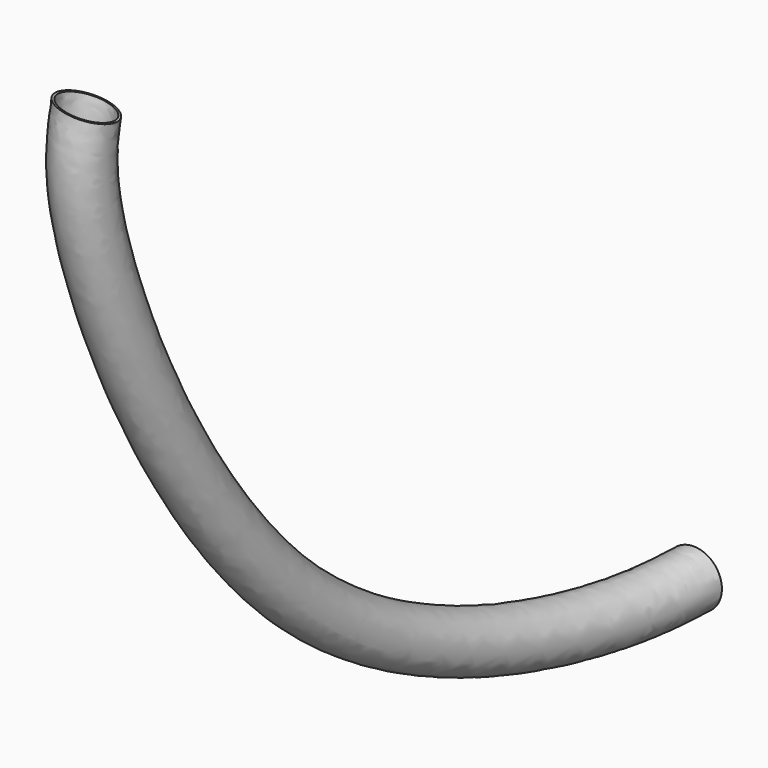
from build123d import *

# Parameters (mm, degrees)
F6_R   = 25
F6_R_2 = 23


with BuildPart() as f7:
    # F7: sweep along a path in F4
    with BuildLine(Plane(origin=(0, 0, 0), x_dir=(-0.1386167971, -0.9903460928, 0), z_dir=(-0.9903460928, 0.1386167971, 0))) as f7_path:
        add(Plane(origin=(0, 0, 0), x_dir=(-0.1386167971, -0.9903460928, 0), z_dir=(-0.9903460928, 0.1386167971, 0)) * Edge.make_bspline(
            [(-576.8276405002, -573), (-553.7714769106, -574.6582490123), (-485.8123984854, -579.546012505), (-155.1715719419, -511.7270213527), (15.5768194492, -89.0910346967), (3.6153848347, -20.6780579826), (0, 0)],
            knots=[0, 0, 0, 0, 0.1613690711, 0.4756425896, 0.8415111656, 1, 1, 1, 1], degree=3))
    # F6 (on plane+point) → F7 (sweep)
    with BuildSketch(Plane.XZ.offset(-571.259)):
        with Locations((79.958, -573)):
            Circle(F6_R)
        with Locations((79.958, -573)):
            Circle(F6_R_2, mode=Mode.SUBTRACT)
    sweep(path=f7_path.line)


solid = f7.part
